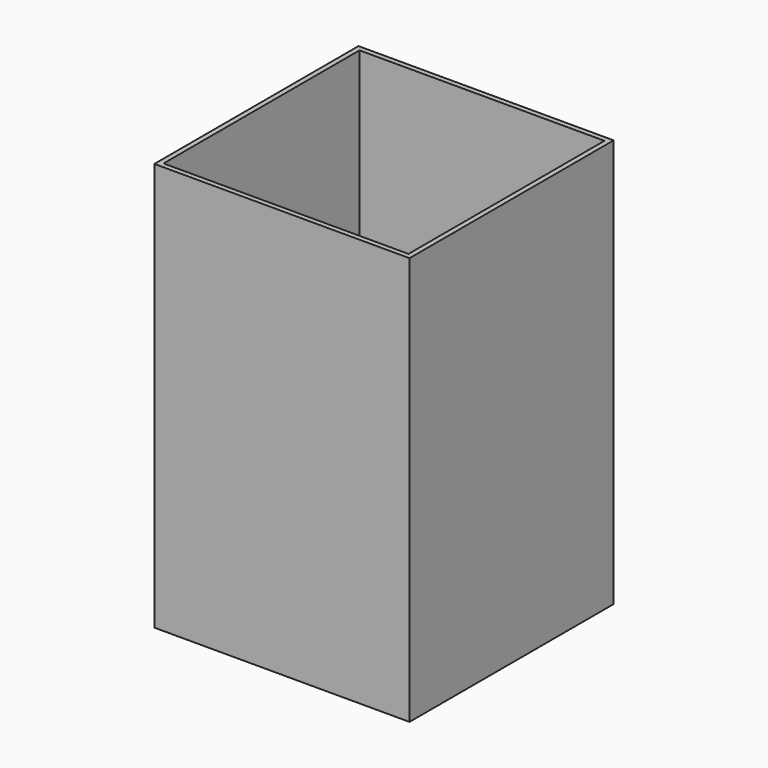
from build123d import *

# Parameters (mm, degrees)
BOX001_W     = 48
BOX001_H     = 48
BOX001_DEPTH = 80
BOX_W        = 50
BOX_H        = 50
BOX_DEPTH    = 80


with BuildPart() as cubo:
    # Box001 → Box001 (new body)
    with BuildSketch(Plane(origin=(1, 1, 0), x_dir=(1, 0, 0), z_dir=(0, 0, 1))):
        with Locations((24, 24)):
            Rectangle(BOX001_W, BOX001_H)
    extrude(amount=BOX001_DEPTH)


with BuildPart() as cut:
    # Box → Box (new body)
    with BuildSketch(Plane.XY):
        with Locations((25, 25)):
            Rectangle(BOX_W, BOX_H)
    extrude(amount=BOX_DEPTH)

    # Cut: cut Cubo
    add(cubo.part, mode=Mode.SUBTRACT)


solid = cut.part
